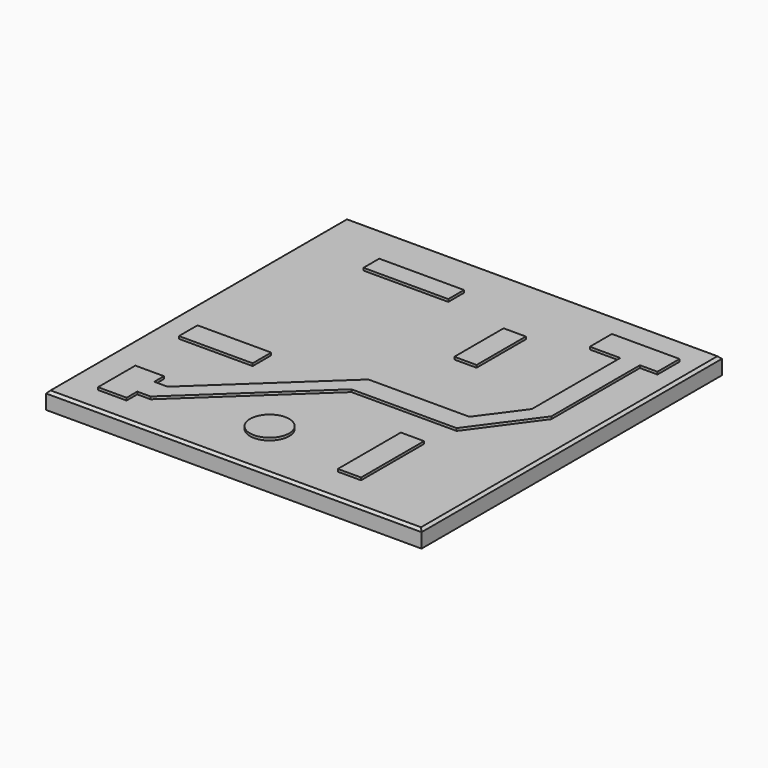
from build123d import *

# Parameters (mm, degrees)
F0_W     = 38.1
F0_H     = 38.1
F1_DEPTH = 1.7272
F2_SIZE  = 0.254
F3_W     = 8.605414
F3_H     = 1.998895
F3_W_2   = 2.356245
F3_H_2   = 7.990742
F3_W_3   = 7.478513
F3_H_3   = 2.356244
F3_W_4   = 2.253799
F3_H_4   = 6.24917
F3_R     = 1.989131
F4_DEPTH = 0.254


with BuildPart() as f1:
    # F0 (on Top) → F1 (new body)
    with BuildSketch(Plane.XY):
        Rectangle(F0_W, F0_H)
    extrude(amount=F1_DEPTH)

    # F2
    f2_edges = [f1.edges().sort_by_distance(p)[0] for p in [
        (0, -19.05, 1.7272),
        (-19.05, 0, 1.7272),
        (0, 19.05, 1.7272),
        (19.05, 0, 1.7272),
    ]]
    chamfer(f2_edges, length=F2_SIZE)

    # F3 (on face) → F4 (join)
    with BuildSketch(Plane.XY.offset(1.7272)):
        Polygon((-13.00328, -11.657394), (-15.904149, -11.657394), (-15.904149, -16.395478), (-13.00328, -16.395478), (-13.00328, -15.04174), (-13.00328, -14.026436), (-13.00328, -12.888039), align=None)
        Polygon((-11.649542, -12.888039), (-13.00328, -12.888039), (-13.00328, -14.026436), (-11.649542, -14.026436), (0, -3.118129), (10.672469, -3.118129), (14.540292, 2.151779), (14.540292, 11.33786), (14.540292, 13.368469), (13.28325, 13.368469), (13.28325, 11.33786), (13.28325, 2.151779), (10.250947, -1.979733), (0, -1.979733), align=None)
        Polygon((-11.649542, -14.026436), (-13.00328, -14.026436), (-13.00328, -15.04174), (-11.649542, -15.04174), (0, -4.133433), (10.672469, -4.133433), (15.274137, 2.136338), (15.274137, 11.51581), (15.274137, 13.368469), (14.540292, 13.368469), (14.540292, 11.33786), (14.540292, 2.151779), (10.672469, -3.118129), (0, -3.118129), align=None)
        Polygon((12.026207, 13.368469), (13.28325, 13.368469), (14.540292, 13.368469), (15.274137, 13.368469), (17.054377, 13.368469), (17.054377, 16.17264), (10.188991, 16.17264), (10.188991, 13.368469), align=None)
        with Locations((-7.976379, 13.745683)):
            Rectangle(F3_W, F3_H)
        with Locations((8.875891, -11.480894)):
            Rectangle(F3_W_2, F3_H_2)
        with Locations((-12.637645, -4.360938)):
            Rectangle(F3_W_3, F3_H_3)
        with Locations((4.009735, 8.444738)):
            Rectangle(F3_W_4, F3_H_4)
        with Locations((-1.112536, -13.120022)):
            Circle(F3_R)
    extrude(amount=F4_DEPTH)


solid = f1.part
